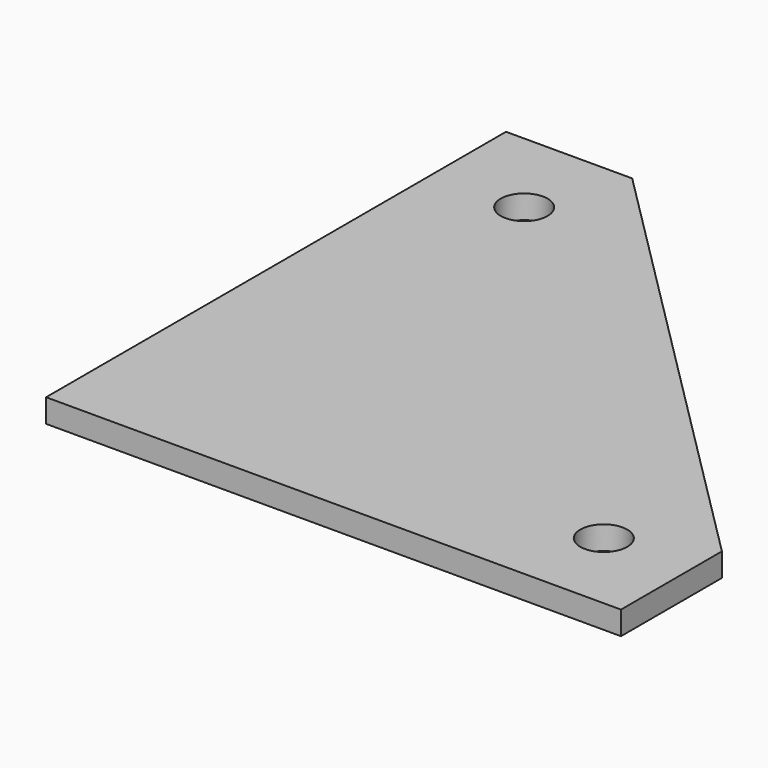
from build123d import *

# Parameters (mm, degrees)
F0_R     = 1.5875
F1_DEPTH = 0.79375


with BuildPart() as f1:
    # F0 (on Top) → F1 (new body, symmetric)
    with BuildSketch(Plane.XY):
        Polygon((-33.090407, 33.090407), (-33.090407, -5.813425), (5.813425, -5.813425), (5.813425, 2.72617), (-24.550812, 33.090407), align=None)
        Circle(F0_R, mode=Mode.SUBTRACT)
        with Locations((-26.940768, 26.940768)):
            Circle(F0_R, mode=Mode.SUBTRACT)
    extrude(amount=F1_DEPTH, both=True)


solid = f1.part
